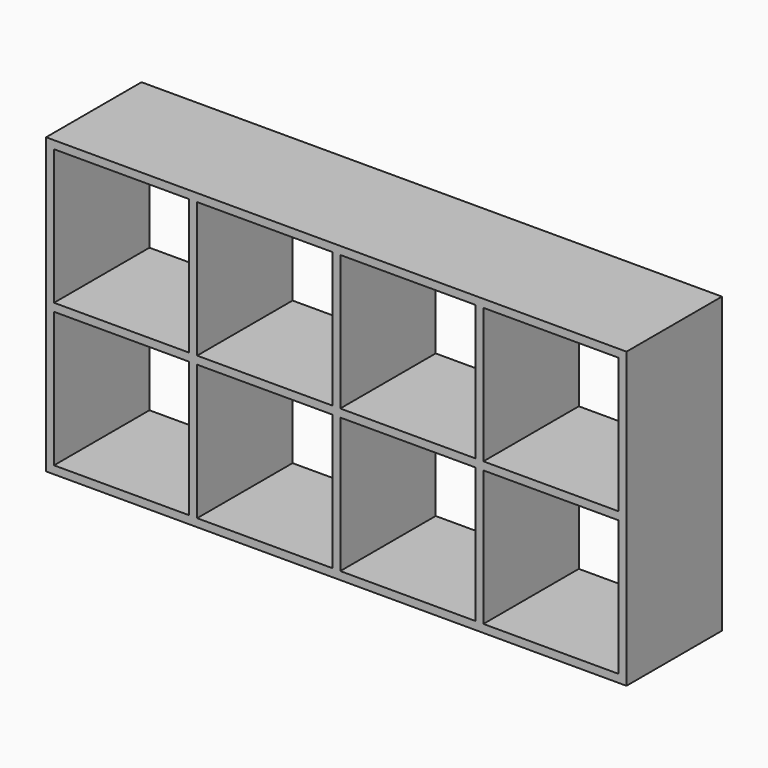
from build123d import *

# Parameters (mm, degrees)
F0_W     = 1460
F0_H     = 740
F1_DEPTH = 300
F2_W     = 340
F2_H     = 340
F3_DEPTH = 300


with BuildPart() as f1:
    # F0 (on Front) → F1 (new body)
    with BuildSketch(Plane.XZ):
        with Locations((730, 370)):
            Rectangle(F0_W, F0_H)
    extrude(amount=F1_DEPTH)

    # F2 (on face) → F3 (cut, through all)
    with BuildSketch(Plane.XZ.offset(300)):
        with Locations((190, 190)):
            Rectangle(F2_W, F2_H)
        with Locations((190, 550)):
            Rectangle(F2_W, F2_H)
        with Locations((550, 190)):
            Rectangle(F2_W, F2_H)
        with Locations((550, 550)):
            Rectangle(F2_W, F2_H)
        with Locations((910, 190)):
            Rectangle(F2_W, F2_H)
        with Locations((910, 550)):
            Rectangle(F2_W, F2_H)
        with Locations((1270, 190)):
            Rectangle(F2_W, F2_H)
        with Locations((1270, 550)):
            Rectangle(F2_W, F2_H)
    extrude(amount=-F3_DEPTH, mode=Mode.SUBTRACT)


solid = f1.part
